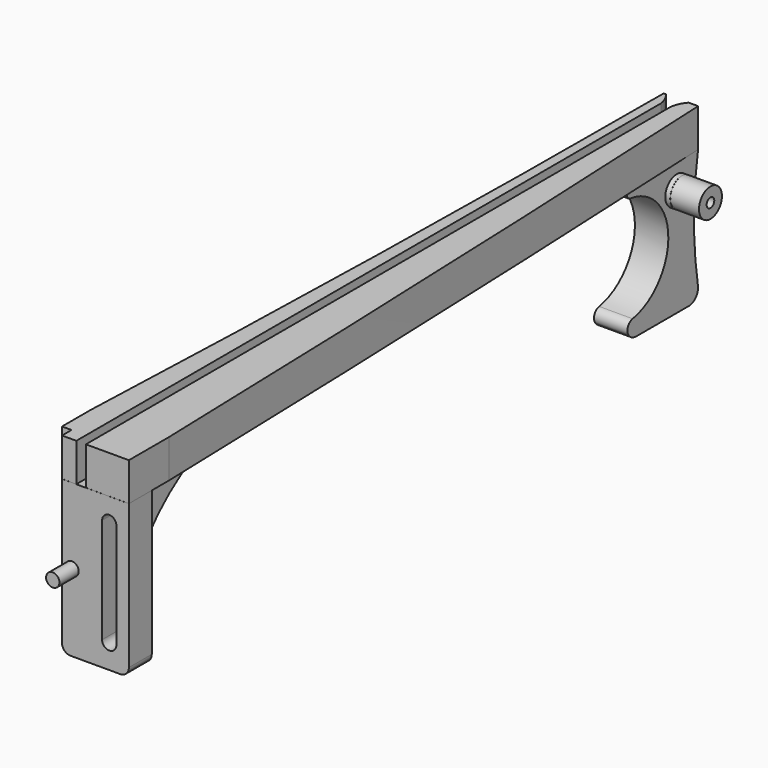
from build123d import *

# Parameters (mm, degrees)
PAD_DEPTH               = 8
SKETCH_W                = 4.72
SKETCH_H                = 153.5
PAD001_DEPTH            = 5
PAD003_DEPTH            = 8
PAD005_DEPTH            = 6
FILLET_R                = 2
FILLET001_R             = 2
SKETCH019_R             = 3
PAD006_DEPTH            = 7
BODY007_PLACEMENT_ANGLE = 180
CYLINDER_R              = 1.4
CYLINDER_DEPTH          = 11
PAD007_DEPTH            = 2
SKETCH012_R             = 1.375
PAD004_DEPTH            = 6
CYLINDER001_R           = 3
CYLINDER001_DEPTH       = 8
TUBE_R                  = 3
TUBE_R_2                = 1
TUBE_DEPTH              = 6


with BuildPart() as rail:
    # Sketch003 → Pad (new body)
    with BuildSketch(Plane.XY):
        with BuildLine():
            Line((-1, 0), (-1, 153))
            ThreePointArc((-1, 153), (-1.472972, 154.593853), (-2.36, 156))
            Line((-2.36, 156), (-2.86, 156))
            ThreePointArc((-6, 10), (-3.658792, 82.983414), (-2.86, 156))
            Line((-6, 10), (-6, 2.5))
            Line((-4, 2.5), (-6, 2.5))
            Line((-4, 0), (-4, 2.5))
            Line((-4, 0), (-1, 0))
        make_face()
    extrude(amount=PAD_DEPTH)

    # Sketch → Pad001 (join)
    with BuildSketch(Plane.XY):
        with Locations((0, 79.25)):
            Rectangle(SKETCH_W, SKETCH_H)
    extrude(amount=PAD001_DEPTH)

    # Sketch011 → Pad003 (join)
    with BuildSketch(Plane.XY):
        with BuildLine():
            Line((1, 0), (10, 0))
            Line((10, 0), (10, 10.5))
            ThreePointArc((10, 10.5), (7.593861, 83.266042), (4.36, 156))
            Line((4.36, 156), (2.36, 156))
            ThreePointArc((2.36, 156), (1.472972, 154.593853), (1, 153))
            Line((1, 153), (1, 0))
        make_face()
    extrude(amount=PAD003_DEPTH)


with BuildPart() as obj1:
    # Sketch013 → Pad005 (new body)
    with BuildSketch(Plane.YZ):
        with BuildLine():
            Line((6.011752, 0), (36.011752, 0))
            Line((36.011752, 0), (36.011752, -2))
            ThreePointArc((36.011752, -2), (17.671346, -11.659594), (8.011752, -30))
            Line((8.011752, -30), (6.011752, -30))
            Line((6.011752, -30), (6.011752, 0))
        make_face()
    extrude(amount=PAD005_DEPTH)

    # Fillet
    fillet_edges = [obj1.edges().sort_by_distance(p)[0] for p in [
        (3, 36.011752, -2),
    ]]
    fillet(fillet_edges, radius=FILLET_R)

    # Fillet001
    fillet001_edges = [obj1.edges().sort_by_distance(p)[0] for p in [
        (3, 8.011752, -30),
    ]]
    fillet(fillet001_edges, radius=FILLET001_R)


with BuildPart() as obj1_1:
    # Body004 placement: moved
    add(obj1.part.moved(Location((-4.016, 0.057, 0))))


with BuildPart() as finger:
    # Sketch019 → Pad006 (new body)
    with BuildSketch(Plane(origin=(0, 0, 0), x_dir=(0, -1, 0), z_dir=(-1, 0, 0))):
        with BuildLine():
            Line((-156.002761, 8.001026), (-137.422761, 8.001026))
            Line((-137.422761, 8.001026), (-137.422761, 8.887959))
            ThreePointArc((-137.422761, 8.887959), (-137.659123, 9.510979), (-138.249251, 9.820444))
            ThreePointArc((-138.882516, 32.241523), (-148.223001, 20.758226), (-138.249251, 9.820444))
            ThreePointArc((-138.882516, 32.241523), (-137.658784, 33.204866), (-137.777352, 34.757763))
            ThreePointArc((-137.777352, 34.757763), (-138.64735, 35.5738), (-139.802749, 35.870219))
            Line((-139.802749, 35.870219), (-153.602749, 35.870219))
            ThreePointArc((-153.602749, 35.870219), (-155.40581, 35.054191), (-155.982749, 33.161026))
            ThreePointArc((-156.002761, 8.001026), (-154.941037, 20.58019), (-155.982749, 33.161026))
        make_face()
        with Locations((-150.473295, 13.330111)):
            Circle(SKETCH019_R, mode=Mode.SUBTRACT)
    extrude(amount=PAD006_DEPTH)


with BuildPart() as finger_1:
    # Body007 placement: moved
    add(finger.part.moved(Location((-2.654, -0.011, 8.013))).rotate(Axis((-2.654, -0.011, 8.013), (0, 1, 0)), BODY007_PLACEMENT_ANGLE))


with BuildPart() as cyl_guide:
    # Cylinder → Cylinder (new body)
    with BuildSketch(Plane(origin=(-1.897, -5.049, -15.889), x_dir=(1, 0, 0), z_dir=(0, 1, 0))):
        Circle(CYLINDER_R)
    extrude(amount=CYLINDER_DEPTH)


with BuildPart() as slotscrew:
    # Sketch020 → Pad007 (new body)
    with BuildSketch(Plane.XZ):
        with BuildLine():
            ThreePointArc((8.9, 35), (5.9, 38), (2.9, 35))
            Line((2.9, 35), (2.9, 13))
            ThreePointArc((2.9, 13), (5.9, 10), (8.9, 13))
            Line((8.9, 13), (8.9, 35))
        make_face()
    extrude(amount=PAD007_DEPTH)


with BuildPart() as slotscrew_1:
    # Body009 placement: moved
    add(slotscrew.part.moved(Location((-0.028, 0.002, -39.747))))


with BuildPart() as base:
    # Sketch012 → Pad004 (new body)
    with BuildSketch(Plane.XZ):
        with BuildLine():
            Line((-4, 0), (10, 0))
            Line((10, 0), (10, -30.2))
            ThreePointArc((8.2, -32), (9.472792, -31.472792), (10, -30.2))
            Line((8.2, -32), (-2.2, -32))
            ThreePointArc((-4, -30.2), (-3.472792, -31.472792), (-2.2, -32))
            Line((-4, -30.2), (-4, 0))
        make_face()
        with Locations((-1.9, -15.9)):
            Circle(SKETCH012_R, mode=Mode.SUBTRACT)
        with BuildLine():
            ThreePointArc((4.4, -26.9), (5.9, -28.4), (7.4, -26.9))
            Line((7.4, -26.9), (7.4, -4.9))
            ThreePointArc((7.4, -4.9), (5.9, -3.4), (4.4, -4.9))
            Line((4.4, -4.9), (4.4, -26.9))
        make_face(mode=Mode.SUBTRACT)
    extrude(amount=PAD004_DEPTH)

    # Cut: cut slotscrew
    add(slotscrew_1.part, mode=Mode.SUBTRACT)


with BuildPart() as base_1:
    # Cut placement: moved
    add(base.part.moved(Location((0, 5.988, 0))))


with BuildPart() as cylinder:
    # Cylinder001 → Cylinder001 (new body)
    with BuildSketch(Plane(origin=(20.93, 150.413, -5.317), x_dir=(0, 0, -1), z_dir=(1, 0, 0))):
        Circle(CYLINDER001_R)
    extrude(amount=CYLINDER001_DEPTH)


with BuildPart() as fusion:
    # Tube → Tube (new body)
    with BuildSketch(Plane(origin=(28.933, 150.437, -5.307), x_dir=(0, 0, -1), z_dir=(1, 0, 0))):
        Circle(TUBE_R)
        Circle(TUBE_R_2, mode=Mode.SUBTRACT)
    extrude(amount=TUBE_DEPTH)

    # Fusion: union Cylinder
    add(cylinder.part)


with BuildPart() as fusion_1:
    # Fusion placement: moved
    add(fusion.part.moved(Location((-23.546, 0, 0.055))))


solid = Compound([rail.part, obj1_1.part, finger_1.part, cyl_guide.part, base_1.part, fusion_1.part])
